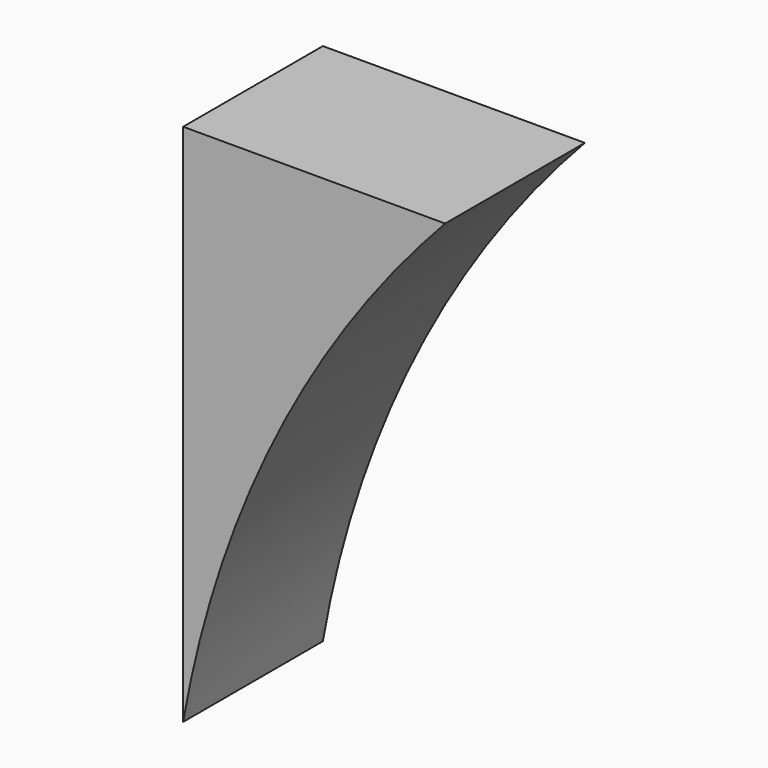
from build123d import *

# Parameters (mm, degrees)
F1_DEPTH = 50.8


with BuildPart() as f1:
    # F0 (on Front) → F1 (new body)
    with BuildSketch(Plane.XZ):
        with BuildLine():
            Line((76.2, 0), (0, 0))
            Line((0, 0), (0, -152.4))
            ThreePointArc((0, -152.4), (26.940094, -70.620047), (76.2, 0))
        make_face()
    extrude(amount=F1_DEPTH)


solid = f1.part
